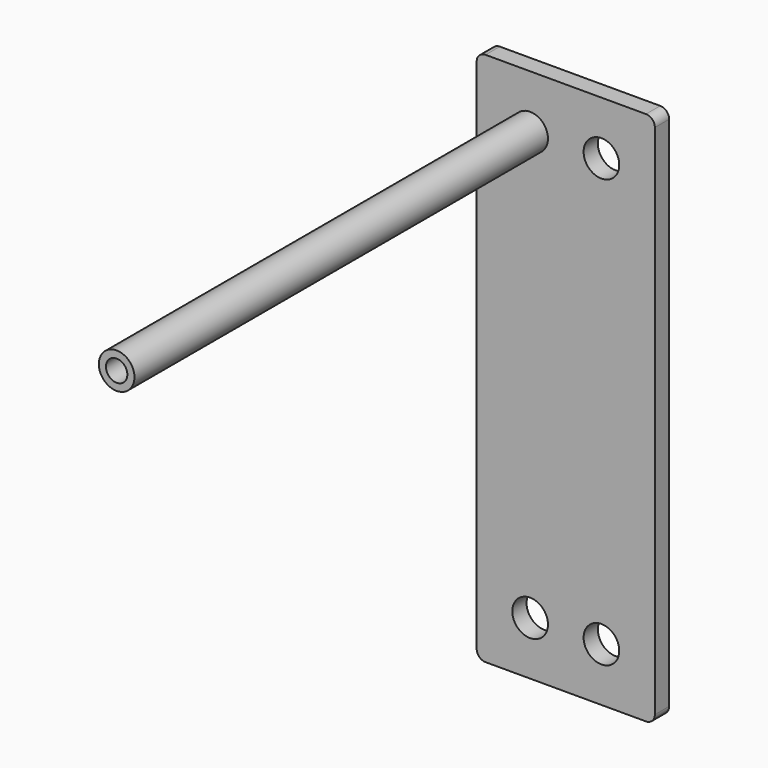
from build123d import *

# Parameters (mm, degrees)
F0_R     = 10
F1_DEPTH = 10
F0_R_2   = 6
F2_DEPTH = 300


with BuildPart() as f1:
    # F0 (on Front) → F1 (new body)
    with BuildSketch(Plane.XZ):
        with BuildLine():
            Line((32.001312, 156.515578), (-57.998688, 156.515578))
            ThreePointArc((-57.998688, 156.515578), (-61.534222, 155.051112), (-62.998688, 151.515578))
            Line((-62.998688, 151.515578), (-62.998688, -138.484422))
            ThreePointArc((-62.998688, -138.484422), (-61.534222, -142.019956), (-57.998688, -143.484422))
            Line((-57.998688, -143.484422), (32.001312, -143.484422))
            ThreePointArc((32.001312, -143.484422), (35.536846, -142.019956), (37.001312, -138.484422))
            Line((37.001312, -138.484422), (37.001312, 151.515578))
            ThreePointArc((37.001312, 151.515578), (35.536846, 155.051112), (32.001312, 156.515578))
        make_face()
        with Locations((-32.998688, -113.484422)):
            Circle(F0_R, mode=Mode.SUBTRACT)
        with Locations((7.001312, -113.484422)):
            Circle(F0_R, mode=Mode.SUBTRACT)
        with Locations((-32.998688, 126.515578)):
            Circle(F0_R, mode=Mode.SUBTRACT)
        with Locations((7.001312, 126.515578)):
            Circle(F0_R, mode=Mode.SUBTRACT)
    extrude(amount=F1_DEPTH)


with BuildPart() as f2:
    # F0 (on Front) → F2 (new body)
    with BuildSketch(Plane.XZ):
        with Locations((-32.998688, 126.515578)):
            Circle(F0_R)
        with Locations((-32.998688, 126.515578)):
            Circle(F0_R_2, mode=Mode.SUBTRACT)
    extrude(amount=F2_DEPTH)


solid = Compound([f1.part, f2.part])
